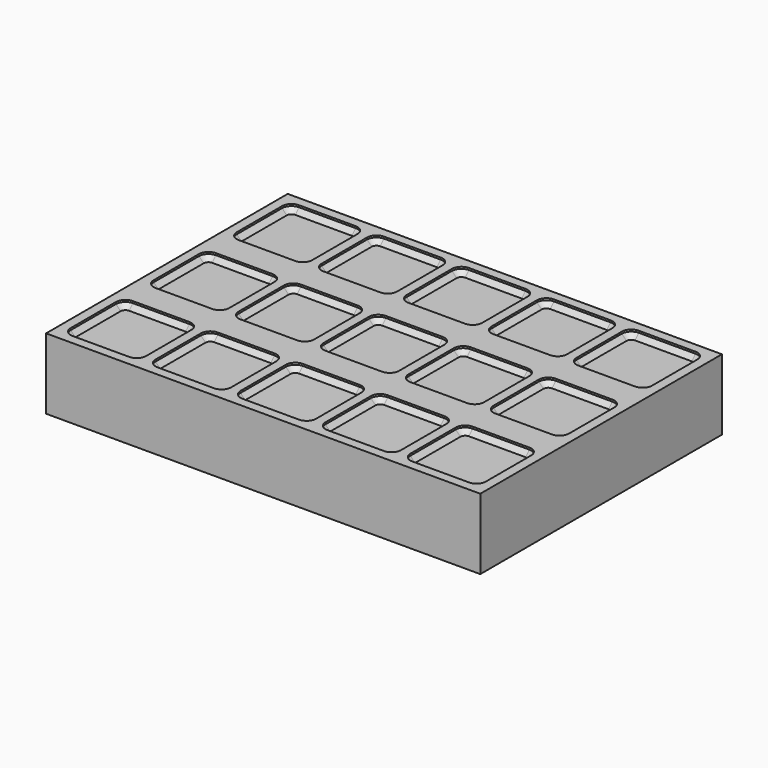
from build123d import *

# Parameters (mm, degrees)
F0_W     = 92
F0_H     = 64
F1_DEPTH = 15
F3_DEPTH = 1.4
F4_SIZE  = 1


with BuildPart() as f1:
    # F0 (on Top) → F1 (new body)
    with BuildSketch(Plane.XY):
        with Locations((-46, 32)):
            Rectangle(F0_W, F0_H)
    extrude(amount=F1_DEPTH)

    # F2 (on face) → F3 (cut)
    with BuildSketch(Plane.XY.offset(15)):
        with BuildLine():
            Line((-76, 62), (-88, 62))
            ThreePointArc((-88, 62), (-89.414214, 61.414214), (-90, 60))
            Line((-90, 60), (-90, 48))
            ThreePointArc((-90, 48), (-89.414214, 46.585786), (-88, 46))
            Line((-88, 46), (-76, 46))
            ThreePointArc((-76, 46), (-74.585786, 46.585786), (-74, 48))
            Line((-74, 48), (-74, 60))
            ThreePointArc((-74, 60), (-74.585786, 61.414214), (-76, 62))
        make_face()
        with BuildLine():
            Line((-58, 62), (-70, 62))
            ThreePointArc((-70, 62), (-71.414214, 61.414214), (-72, 60))
            Line((-72, 60), (-72, 48))
            ThreePointArc((-72, 48), (-71.414214, 46.585786), (-70, 46))
            Line((-70, 46), (-58, 46))
            ThreePointArc((-58, 46), (-56.585786, 46.585786), (-56, 48))
            Line((-56, 48), (-56, 60))
            ThreePointArc((-56, 60), (-56.585786, 61.414214), (-58, 62))
        make_face()
        with BuildLine():
            Line((-40, 62), (-52, 62))
            ThreePointArc((-52, 62), (-53.414214, 61.414214), (-54, 60))
            Line((-54, 60), (-54, 48))
            ThreePointArc((-54, 48), (-53.414214, 46.585786), (-52, 46))
            Line((-52, 46), (-40, 46))
            ThreePointArc((-40, 46), (-38.585786, 46.585786), (-38, 48))
            Line((-38, 48), (-38, 60))
            ThreePointArc((-38, 60), (-38.585786, 61.414214), (-40, 62))
        make_face()
        with BuildLine():
            Line((-22, 62), (-34, 62))
            ThreePointArc((-34, 62), (-35.414214, 61.414214), (-36, 60))
            Line((-36, 60), (-36, 48))
            ThreePointArc((-36, 48), (-35.414214, 46.585786), (-34, 46))
            Line((-34, 46), (-22, 46))
            ThreePointArc((-22, 46), (-20.585786, 46.585786), (-20, 48))
            Line((-20, 48), (-20, 60))
            ThreePointArc((-20, 60), (-20.585786, 61.414214), (-22, 62))
        make_face()
        with BuildLine():
            Line((-4, 62), (-16, 62))
            ThreePointArc((-16, 62), (-17.414214, 61.414214), (-18, 60))
            Line((-18, 60), (-18, 48))
            ThreePointArc((-18, 48), (-17.414214, 46.585786), (-16, 46))
            Line((-16, 46), (-4, 46))
            ThreePointArc((-4, 46), (-2.585786, 46.585786), (-2, 48))
            Line((-2, 48), (-2, 60))
            ThreePointArc((-2, 60), (-2.585786, 61.414214), (-4, 62))
        make_face()
        with BuildLine():
            Line((-4, 40), (-16, 40))
            ThreePointArc((-16, 40), (-17.414214, 39.414214), (-18, 38))
            Line((-18, 38), (-18, 26))
            ThreePointArc((-18, 26), (-17.414214, 24.585786), (-16, 24))
            Line((-16, 24), (-4, 24))
            ThreePointArc((-4, 24), (-2.585786, 24.585786), (-2, 26))
            Line((-2, 26), (-2, 38))
            ThreePointArc((-2, 38), (-2.585786, 39.414214), (-4, 40))
        make_face()
        with BuildLine():
            Line((-22, 40), (-34, 40))
            ThreePointArc((-34, 40), (-35.414214, 39.414214), (-36, 38))
            Line((-36, 38), (-36, 26))
            ThreePointArc((-36, 26), (-35.414214, 24.585786), (-34, 24))
            Line((-34, 24), (-22, 24))
            ThreePointArc((-22, 24), (-20.585786, 24.585786), (-20, 26))
            Line((-20, 26), (-20, 38))
            ThreePointArc((-20, 38), (-20.585786, 39.414214), (-22, 40))
        make_face()
        with BuildLine():
            Line((-40, 40), (-52, 40))
            ThreePointArc((-52, 40), (-53.414214, 39.414214), (-54, 38))
            Line((-54, 38), (-54, 26))
            ThreePointArc((-54, 26), (-53.414214, 24.585786), (-52, 24))
            Line((-52, 24), (-40, 24))
            ThreePointArc((-40, 24), (-38.585786, 24.585786), (-38, 26))
            Line((-38, 26), (-38, 38))
            ThreePointArc((-38, 38), (-38.585786, 39.414214), (-40, 40))
        make_face()
        with BuildLine():
            Line((-58, 40), (-70, 40))
            ThreePointArc((-70, 40), (-71.414214, 39.414214), (-72, 38))
            Line((-72, 38), (-72, 26))
            ThreePointArc((-72, 26), (-71.414214, 24.585786), (-70, 24))
            Line((-70, 24), (-58, 24))
            ThreePointArc((-58, 24), (-56.585786, 24.585786), (-56, 26))
            Line((-56, 26), (-56, 38))
            ThreePointArc((-56, 38), (-56.585786, 39.414214), (-58, 40))
        make_face()
        with BuildLine():
            Line((-76, 40), (-88, 40))
            ThreePointArc((-88, 40), (-89.414214, 39.414214), (-90, 38))
            Line((-90, 38), (-90, 26))
            ThreePointArc((-90, 26), (-89.414214, 24.585786), (-88, 24))
            Line((-88, 24), (-76, 24))
            ThreePointArc((-76, 24), (-74.585786, 24.585786), (-74, 26))
            Line((-74, 26), (-74, 38))
            ThreePointArc((-74, 38), (-74.585786, 39.414214), (-76, 40))
        make_face()
        with BuildLine():
            Line((-76, 18), (-88, 18))
            ThreePointArc((-88, 18), (-89.414214, 17.414214), (-90, 16))
            Line((-90, 16), (-90, 4))
            ThreePointArc((-90, 4), (-89.414214, 2.585786), (-88, 2))
            Line((-88, 2), (-76, 2))
            ThreePointArc((-76, 2), (-74.585786, 2.585786), (-74, 4))
            Line((-74, 4), (-74, 16))
            ThreePointArc((-74, 16), (-74.585786, 17.414214), (-76, 18))
        make_face()
        with BuildLine():
            Line((-58, 18), (-70, 18))
            ThreePointArc((-70, 18), (-71.414214, 17.414214), (-72, 16))
            Line((-72, 16), (-72, 4))
            ThreePointArc((-72, 4), (-71.414214, 2.585786), (-70, 2))
            Line((-70, 2), (-58, 2))
            ThreePointArc((-58, 2), (-56.585786, 2.585786), (-56, 4))
            Line((-56, 4), (-56, 16))
            ThreePointArc((-56, 16), (-56.585786, 17.414214), (-58, 18))
        make_face()
        with BuildLine():
            Line((-40, 18), (-52, 18))
            ThreePointArc((-52, 18), (-53.414214, 17.414214), (-54, 16))
            Line((-54, 16), (-54, 4))
            ThreePointArc((-54, 4), (-53.414214, 2.585786), (-52, 2))
            Line((-52, 2), (-40, 2))
            ThreePointArc((-40, 2), (-38.585786, 2.585786), (-38, 4))
            Line((-38, 4), (-38, 16))
            ThreePointArc((-38, 16), (-38.585786, 17.414214), (-40, 18))
        make_face()
        with BuildLine():
            Line((-22, 18), (-34, 18))
            ThreePointArc((-34, 18), (-35.414214, 17.414214), (-36, 16))
            Line((-36, 16), (-36, 4))
            ThreePointArc((-36, 4), (-35.414214, 2.585786), (-34, 2))
            Line((-34, 2), (-22, 2))
            ThreePointArc((-22, 2), (-20.585786, 2.585786), (-20, 4))
            Line((-20, 4), (-20, 16))
            ThreePointArc((-20, 16), (-20.585786, 17.414214), (-22, 18))
        make_face()
        with BuildLine():
            Line((-4, 18), (-16, 18))
            ThreePointArc((-16, 18), (-17.414214, 17.414214), (-18, 16))
            Line((-18, 16), (-18, 4))
            ThreePointArc((-18, 4), (-17.414214, 2.585786), (-16, 2))
            Line((-16, 2), (-4, 2))
            ThreePointArc((-4, 2), (-2.585786, 2.585786), (-2, 4))
            Line((-2, 4), (-2, 16))
            ThreePointArc((-2, 16), (-2.585786, 17.414214), (-4, 18))
        make_face()
    extrude(amount=-F3_DEPTH, mode=Mode.SUBTRACT)

    # F4
    f4_edges = [f1.edges().sort_by_distance(p)[0] for p in [
        (-90, 10, 13.6),
        (-82, 40, 13.6),
        (-89.414214, 39.414214, 13.6),
        (-90, 32, 13.6),
        (-89.414214, 24.585786, 13.6),
        (-82, 24, 13.6),
        (-74.585786, 24.585786, 13.6),
        (-74, 32, 13.6),
        (-74.585786, 39.414214, 13.6),
        (-82, 62, 13.6),
        (-89.414214, 61.414214, 13.6),
        (-90, 54, 13.6),
        (-89.414214, 46.585786, 13.6),
        (-82, 46, 13.6),
        (-74.585786, 46.585786, 13.6),
        (-74, 54, 13.6),
        (-74.585786, 61.414214, 13.6),
        (-64, 62, 13.6),
        (-71.414214, 61.414214, 13.6),
        (-72, 54, 13.6),
        (-71.414214, 46.585786, 13.6),
        (-64, 46, 13.6),
        (-56.585786, 46.585786, 13.6),
        (-56, 54, 13.6),
        (-56.585786, 61.414214, 13.6),
        (-46, 62, 13.6),
        (-53.414214, 61.414214, 13.6),
        (-54, 54, 13.6),
        (-53.414214, 46.585786, 13.6),
        (-46, 46, 13.6),
        (-38.585786, 46.585786, 13.6),
        (-38, 54, 13.6),
        (-38.585786, 61.414214, 13.6),
        (-46, 40, 13.6),
        (-53.414214, 39.414214, 13.6),
        (-54, 32, 13.6),
        (-53.414214, 24.585786, 13.6),
        (-46, 24, 13.6),
        (-38.585786, 24.585786, 13.6),
        (-38, 32, 13.6),
        (-38.585786, 39.414214, 13.6),
        (-64, 40, 13.6),
        (-71.414214, 39.414214, 13.6),
        (-72, 32, 13.6),
        (-71.414214, 24.585786, 13.6),
        (-64, 24, 13.6),
        (-56.585786, 24.585786, 13.6),
        (-56, 32, 13.6),
        (-56.585786, 39.414214, 13.6),
        (-64, 18, 13.6),
        (-71.414214, 17.414214, 13.6),
        (-72, 10, 13.6),
        (-71.414214, 2.585786, 13.6),
        (-64, 2, 13.6),
        (-56.585786, 2.585786, 13.6),
        (-56, 10, 13.6),
        (-56.585786, 17.414214, 13.6),
        (-46, 18, 13.6),
        (-53.414214, 17.414214, 13.6),
        (-54, 10, 13.6),
        (-53.414214, 2.585786, 13.6),
        (-46, 2, 13.6),
        (-38.585786, 2.585786, 13.6),
        (-38, 10, 13.6),
        (-38.585786, 17.414214, 13.6),
        (-28, 18, 13.6),
        (-35.414214, 17.414214, 13.6),
        (-36, 10, 13.6),
        (-35.414214, 2.585786, 13.6),
        (-28, 2, 13.6),
        (-20.585786, 2.585786, 13.6),
        (-20, 10, 13.6),
        (-20.585786, 17.414214, 13.6),
        (-20.585786, 39.414214, 13.6),
        (-28, 40, 13.6),
        (-35.414214, 39.414214, 13.6),
        (-36, 32, 13.6),
        (-35.414214, 24.585786, 13.6),
        (-28, 24, 13.6),
        (-20.585786, 24.585786, 13.6),
        (-20, 32, 13.6),
        (-20.585786, 61.414214, 13.6),
        (-28, 62, 13.6),
        (-35.414214, 61.414214, 13.6),
        (-36, 54, 13.6),
        (-35.414214, 46.585786, 13.6),
        (-28, 46, 13.6),
        (-20.585786, 46.585786, 13.6),
        (-20, 54, 13.6),
        (-18, 54, 13.6),
        (-2.585786, 39.414214, 13.6),
        (-10, 40, 13.6),
        (-17.414214, 39.414214, 13.6),
        (-18, 32, 13.6),
        (-17.414214, 24.585786, 13.6),
        (-10, 24, 13.6),
        (-2.585786, 24.585786, 13.6),
        (-2, 32, 13.6),
        (-2.585786, 17.414214, 13.6),
        (-10, 18, 13.6),
        (-17.414214, 17.414214, 13.6),
        (-18, 10, 13.6),
        (-17.414214, 2.585786, 13.6),
        (-10, 2, 13.6),
        (-2.585786, 2.585786, 13.6),
        (-2, 10, 13.6),
    ]]
    chamfer(f4_edges, length=F4_SIZE)


solid = f1.part
